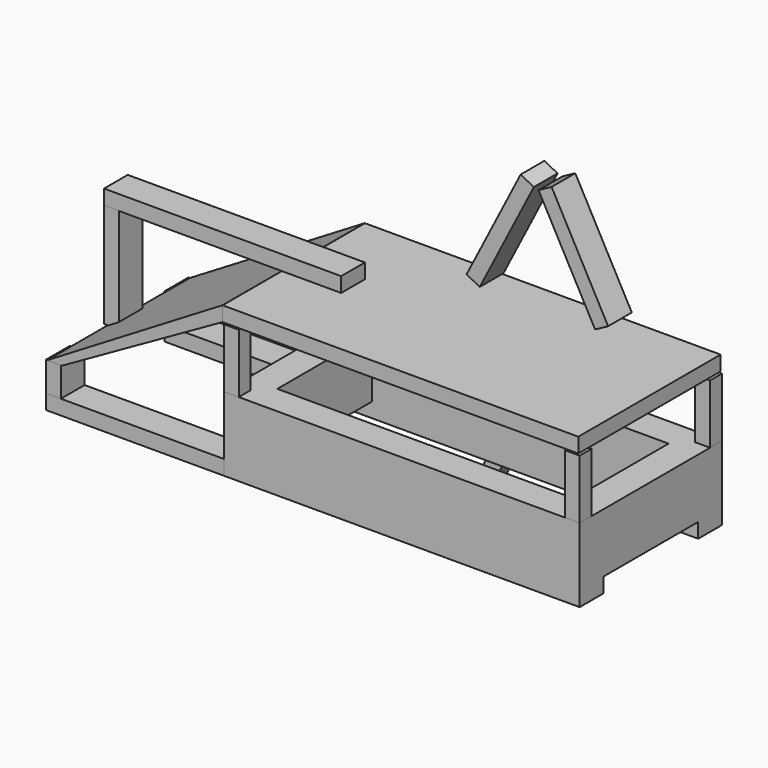
from build123d import *

# Parameters (mm, degrees)
F0_W      = 152.4
F0_H      = 25.4
F0_H_2    = 6.35
F1_DEPTH  = 76.2
F2_W      = 50.8
F2_H      = 6.35
F3_DEPTH  = 175.006
F4_W      = 127
F4_H      = 50.8
F5_DEPTH  = 43.688
F6_W      = 6.35
F6_H      = 6.35
F7_DEPTH  = 25.4
F8_DEPTH  = 25.4
F9_DEPTH  = 25.4
F10_DEPTH = 25.4
F11_W     = 152.4
F11_H     = 6.35
F12_DEPTH = 76.2
F13_W     = 101.6
F13_H     = 12.7
F14_DEPTH = 6.35
F15_W     = 12.7
F15_H     = 6.35
F16_DEPTH = 76.2
F17_W     = 12.7
F17_H     = 6.35
F19_DEPTH = 76.2
F20_W     = 6.35
F20_H     = 12.7
F21_DEPTH = 12.7
F22_W     = 12.7
F22_H     = 12.7
F23_DEPTH = 6.35
F25_DEPTH = 76.2
F26_W     = 6.35
F26_H     = 12.7
F27_DEPTH = 44.704
F29_DEPTH = 12.7
F31_DEPTH = 12.7
F33_DEPTH = 6.35


with BuildPart() as f1:
    # F0 (on Front) → F1 (new body)
    with BuildSketch(Plane.XZ):
        with Locations((-0.1274236178, -12.7)):
            Rectangle(F0_W, F0_H)
        with Locations((-0.1274236178, -28.575)):
            Rectangle(F0_W, F0_H_2)
    extrude(amount=F1_DEPTH)

    # F2 (on face) → F3 (cut)
    with BuildSketch(Plane.YZ.offset(76.0725763822)):
        with Locations((-38.1, -28.575)):
            Rectangle(F2_W, F2_H)
    extrude(amount=-F3_DEPTH, mode=Mode.SUBTRACT)

    # F4 (on face) → F5 (cut)
    with BuildSketch(Plane.XY):
        with Locations((-0.1274236178, -38.1)):
            Rectangle(F4_W, F4_H)
    extrude(amount=-F5_DEPTH, mode=Mode.SUBTRACT)

    # F32 (on Front) → F33 (join)
    with BuildSketch(Plane.XZ):
        Polygon((0, 5.7005062699), (-22.0274893392, -40.0753576041), (-16.305506355, -42.8287937715), (5.7219829842, 2.9470701025), align=None)
    extrude(amount=F33_DEPTH)


with BuildPart() as f7:
    # F6 (on face) → F7 (new body)
    with BuildSketch(Plane.XY):
        with Locations((-73.1524236178, -3.175)):
            Rectangle(F6_W, F6_H)
    extrude(amount=F7_DEPTH)


with BuildPart() as f8:
    # F6 (on face) → F8 (new body)
    with BuildSketch(Plane.XY):
        with Locations((-73.1524236178, -73.025)):
            Rectangle(F6_W, F6_H)
    extrude(amount=F8_DEPTH)


with BuildPart() as f9:
    # F6 (on face) → F9 (new body)
    with BuildSketch(Plane.XY):
        with Locations((72.8975763822, -3.175)):
            Rectangle(F6_W, F6_H)
    extrude(amount=F9_DEPTH)


with BuildPart() as f10:
    # F6 (on face) → F10 (new body)
    with BuildSketch(Plane.XY):
        with Locations((72.8975763822, -73.025)):
            Rectangle(F6_W, F6_H)
    extrude(amount=F10_DEPTH)


with BuildPart() as f12:
    # F11 (on Front) → F12 (new body)
    with BuildSketch(Plane.XZ):
        with Locations((-0.7012687636, 29.1903975472)):
            Rectangle(F11_W, F11_H)
    extrude(amount=F12_DEPTH)

    # F13 (on face) → F14 (join)
    with BuildSketch(Plane.XY.offset(32.3653975472)):
        with Locations((-102.3012687636, -38.1)):
            Rectangle(F13_W, F13_H)
    extrude(amount=F14_DEPTH)


with BuildPart() as f16:
    # F15 (on face) → F16 (new body)
    with BuildSketch(Plane(origin=(-76.3274236178, 0, 0), x_dir=(0, -1, 0), z_dir=(-1, 0, 0))):
        with Locations((6.35, -28.575)):
            Rectangle(F15_W, F15_H)
    extrude(amount=F16_DEPTH)


with BuildPart() as f19:
    # F17 (on face) → F19 (new body)
    with BuildSketch(Plane(origin=(-76.3274236178, 0, 0), x_dir=(0, -1, 0), z_dir=(-1, 0, 0))):
        with Locations((69.85, -28.575)):
            Rectangle(F17_W, F17_H)
    extrude(amount=F19_DEPTH)


with BuildPart() as f21:
    # F20 (on face) → F21 (new body)
    with BuildSketch(Plane(origin=(0, 0, 0), x_dir=(-1, 0, 0), z_dir=(0, 1, 0))):
        with Locations((149.3524236178, -19.05)):
            Rectangle(F20_W, F20_H)
    extrude(amount=-F21_DEPTH)


with BuildPart() as f23:
    # F22 (on face) → F23 (new body)
    with BuildSketch(Plane(origin=(-152.5274236178, 0, 0), x_dir=(0, -1, 0), z_dir=(-1, 0, 0))):
        with Locations((69.85, -19.05)):
            Rectangle(F22_W, F22_H)
    extrude(amount=-F23_DEPTH)


with BuildPart() as f25:
    # F24 (on Front) → F25 (new body)
    with BuildSketch(Plane.XZ):
        Polygon((-152.1156430244, -12.8270005807), (-145.7656430244, -12.8270005807), (-76.9316330552, 26.0349990964), (-76.9316330552, 32.3849990964), align=None)
    extrude(amount=F25_DEPTH)


with BuildPart() as f27:
    # F26 (on face) → F27 (new body)
    with BuildSketch(Plane(origin=(0, 0, 32.3653975472), x_dir=(1, 0, 0), z_dir=(0, 0, -1))):
        with Locations((-149.9262687636, 38.1)):
            Rectangle(F26_W, F26_H)
    extrude(amount=F27_DEPTH)


with BuildPart() as f29:
    # F28 (on Front) → F29 (new body)
    with BuildSketch(Plane.XZ):
        Polygon((0, 80.8953270316), (-23.1713982343, 35.6877358122), (-17.5204493319, 32.7913110329), (5.6509489024, 77.9989022523), align=None)
    extrude(amount=F29_DEPTH)


with BuildPart() as f31:
    # F30 (on Front) → F31 (new body)
    with BuildSketch(Plane.XZ):
        Polygon((37.4627455747, 35.8587955256), (13.2582784958, 80.5217978142), (7.6754032098, 77.4962394293), (31.8798702887, 32.8332371408), align=None)
    extrude(amount=F31_DEPTH)


solid = Compound([f1.part, f7.part, f8.part, f9.part, f10.part, f12.part, f16.part, f19.part, f21.part, f23.part, f25.part, f27.part, f29.part, f31.part])
